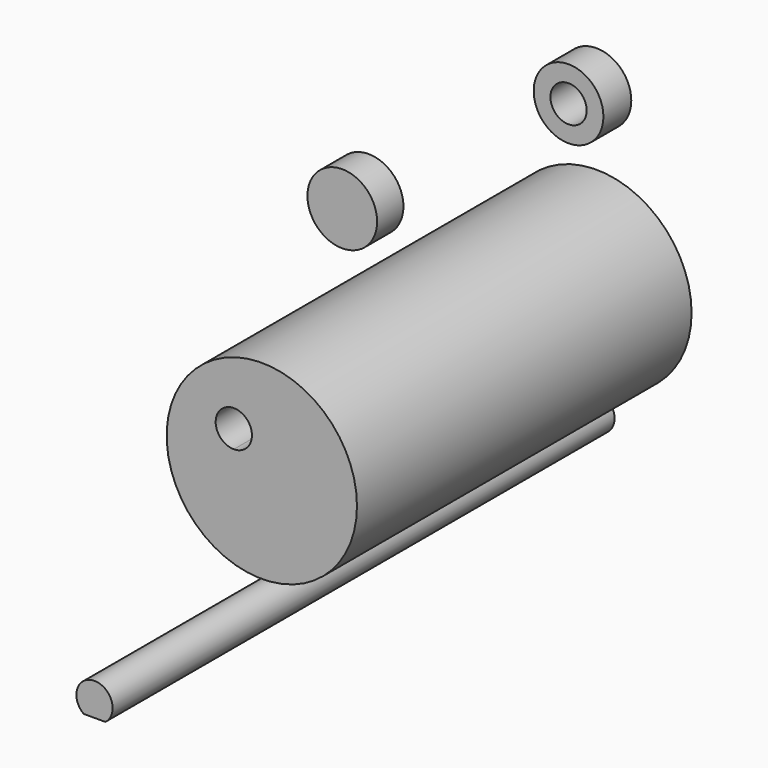
from build123d import *

# Parameters (mm, degrees)
F0_R     = 17.3355
F2_DEPTH = 76.2
F3_DEPTH = 114.3
F4_R     = 6.35
F4_R_2   = 3.302
F5_DEPTH = 6.35
F6_R     = 6.35
F7_DEPTH = 6


with BuildPart() as f2:
    # F0 (on Front) → F2 (new body)
    with BuildSketch(Plane.XZ):
        Circle(F0_R)
        with BuildLine():
            ThreePointArc((-5.1054, 1.8034), (-7.440267, 7.440267), (-1.8034, 5.1054))
            ThreePointArc((-1.8034, 5.1054), (-2.770533, 2.770533), (-5.1054, 1.8034))
        make_face(mode=Mode.SUBTRACT)
    extrude(amount=F2_DEPTH)


with BuildPart() as f3:
    # F1 (on Front) → F3 (new body)
    with BuildSketch(Plane.XZ):
        with BuildLine():
            Line((-1.979169, -24.13795), (1.979169, -24.13795))
            ThreePointArc((1.979169, -24.13795), (0, -18.192828), (-1.979169, -24.13795))
        make_face()
    extrude(amount=F3_DEPTH)


with BuildPart() as f5:
    # F4 (on Front) → F5 (new body)
    with BuildSketch(Plane.XZ):
        with Locations((0, 30.476896)):
            Circle(F4_R)
        with Locations((0, 30.476896)):
            Circle(F4_R_2, mode=Mode.SUBTRACT)
    extrude(amount=F5_DEPTH)


with BuildPart() as f7:
    # F6 (on Front) → F7 (new body)
    with BuildSketch(Plane.XZ):
        with Locations((-41.505409, 0)):
            Circle(F6_R)
    extrude(amount=F7_DEPTH)


solid = Compound([f2.part, f3.part, f5.part, f7.part])
